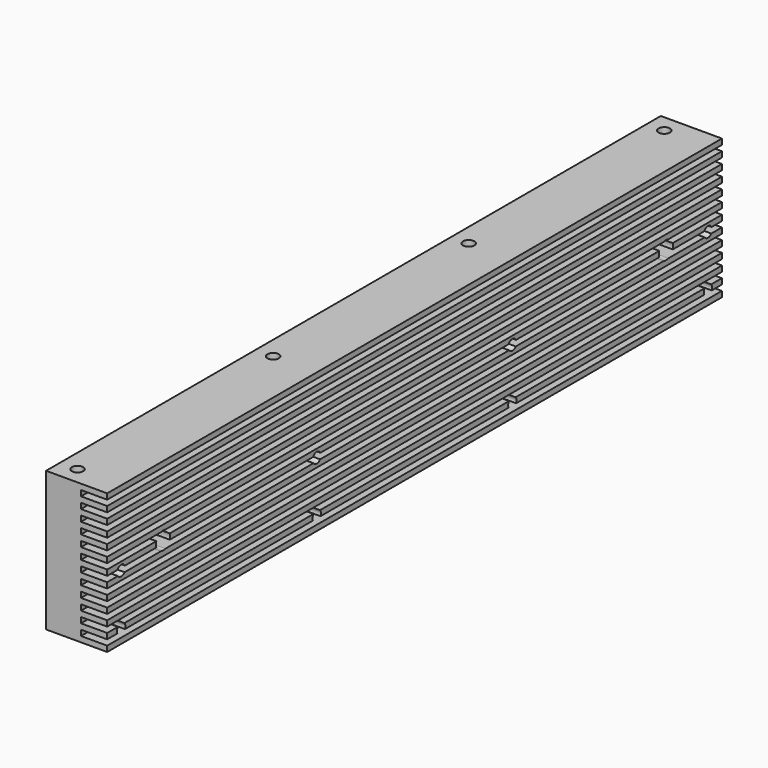
from build123d import *

# Parameters (mm, degrees)
SKETCH_W        = 17.5
SKETCH_H        = 40
PAD_DEPTH       = 220
SKETCH001_W     = 7.5
SKETCH001_H     = 1.6
POCKET_DEPTH    = 220.001
SKETCH002_R     = 3.5
POCKET001_DEPTH = 25
SKETCH003_R     = 1.625
POCKET002_DEPTH = 40.001
SKETCH004_R     = 1.5
POCKET003_DEPTH = 13
SKETCH005_R     = 2.54
POCKET004_DEPTH = 17.501


with BuildPart() as part:
    # Sketch → Pad (new body)
    with BuildSketch(Plane.XZ):
        with Locations((8.75, 20)):
            Rectangle(SKETCH_W, SKETCH_H)
    extrude(amount=PAD_DEPTH)

    # Sketch001 (on Face6 of Pad) → Pocket (cut, through all)
    with BuildSketch(Plane.XZ.offset(220)):
        with Locations((13.75, 2.4)):
            Rectangle(SKETCH001_W, SKETCH001_H)
        with Locations((13.75, 5.6)):
            Rectangle(SKETCH001_W, SKETCH001_H)
        with Locations((13.75, 8.8)):
            Rectangle(SKETCH001_W, SKETCH001_H)
        with Locations((13.75, 12)):
            Rectangle(SKETCH001_W, SKETCH001_H)
        with Locations((13.75, 15.2)):
            Rectangle(SKETCH001_W, SKETCH001_H)
        with Locations((13.75, 18.4)):
            Rectangle(SKETCH001_W, SKETCH001_H)
        with Locations((13.75, 21.6)):
            Rectangle(SKETCH001_W, SKETCH001_H)
        with Locations((13.75, 24.8)):
            Rectangle(SKETCH001_W, SKETCH001_H)
        with Locations((13.75, 28)):
            Rectangle(SKETCH001_W, SKETCH001_H)
        with Locations((13.75, 31.2)):
            Rectangle(SKETCH001_W, SKETCH001_H)
        with Locations((13.75, 34.4)):
            Rectangle(SKETCH001_W, SKETCH001_H)
        with Locations((13.75, 37.6)):
            Rectangle(SKETCH001_W, SKETCH001_H)
    extrude(amount=-POCKET_DEPTH, mode=Mode.SUBTRACT)

    # Sketch002 (on Face1 of Pocket) → Pocket001 (cut)
    with BuildSketch(Plane(origin=(0, 0, 0), x_dir=(1, 0, 0), z_dir=(0, 0, -1))):
        with Locations((5, 145)):
            Circle(SKETCH002_R)
        with Locations((5, 75)):
            Circle(SKETCH002_R)
        with Locations((5, 5)):
            Circle(SKETCH002_R)
        with Locations((5, 215)):
            Circle(SKETCH002_R)
    extrude(amount=-POCKET001_DEPTH, mode=Mode.SUBTRACT)

    # Sketch003 (on Face1 of Pocket001) → Pocket002 (cut, through all)
    with BuildSketch(Plane(origin=(0, 0, 0), x_dir=(1, 0, 0), z_dir=(0, 0, -1))):
        with Locations((5, 215)):
            Circle(SKETCH003_R)
        with Locations((5, 145)):
            Circle(SKETCH003_R)
        with Locations((5, 75)):
            Circle(SKETCH003_R)
        with Locations((5, 5)):
            Circle(SKETCH003_R)
    extrude(amount=-POCKET002_DEPTH, mode=Mode.SUBTRACT)

    # Sketch004 (on Face11 of Pocket002) → Pocket003 (cut)
    with BuildSketch(Plane(origin=(17.5, 0, 0), x_dir=(0, 0, 1), z_dir=(1, 0, 0))):
        with Locations((3.85, 215)):
            Circle(SKETCH004_R)
        with Locations((18.5, 215)):
            Circle(SKETCH004_R)
        with Locations((3.85, 145)):
            Circle(SKETCH004_R)
        with Locations((18.5, 145)):
            Circle(SKETCH004_R)
        with Locations((3.85, 75)):
            Circle(SKETCH004_R)
        with Locations((18.5, 75)):
            Circle(SKETCH004_R)
        with Locations((3.85, 5)):
            Circle(SKETCH004_R)
        with Locations((18.5, 5)):
            Circle(SKETCH004_R)
    extrude(amount=-POCKET003_DEPTH, mode=Mode.SUBTRACT)

    # Sketch005 (on Face2 of Pocket003) → Pocket004 (cut, through all)
    with BuildSketch(Plane(origin=(0, 0, 0), x_dir=(0, 0, -1), z_dir=(-1, 0, 0))):
        with Locations((-20, 200)):
            Circle(SKETCH005_R)
        with Locations((-20, 20)):
            Circle(SKETCH005_R)
    extrude(amount=-POCKET004_DEPTH, mode=Mode.SUBTRACT)


solid = part.part
